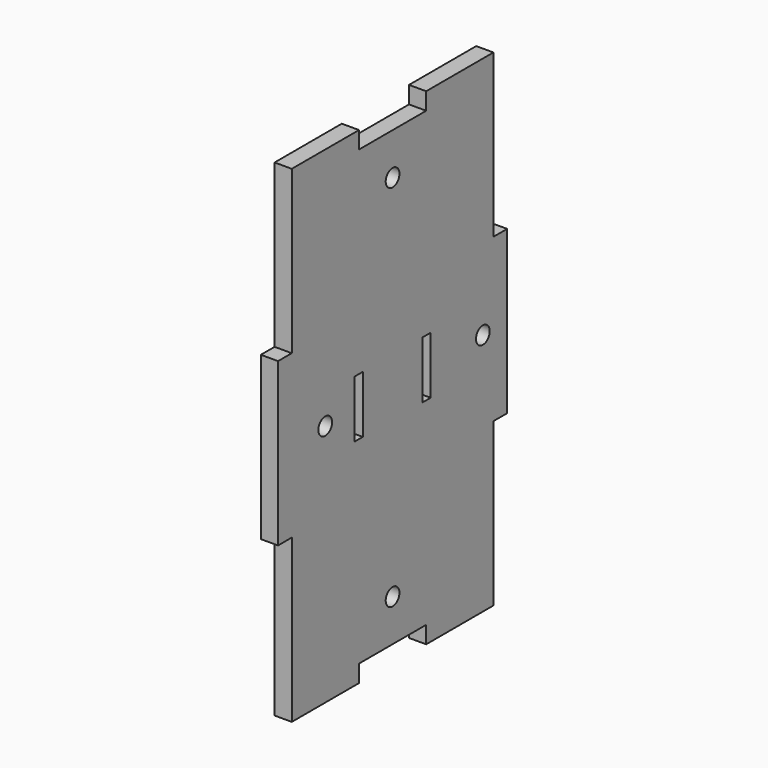
from build123d import *

# Parameters (mm, degrees)
F0_R     = 1.5
F0_W     = 1.8
F0_H     = 10
F1_DEPTH = 3


with BuildPart() as f1:
    # F0 (on Right) → F1 (new body)
    with BuildSketch(Plane.YZ):
        with BuildLine():
            Line((-22, 14.166667), (-25, 14.166667))
            Line((-25, 14.166667), (-25, -14.166667))
            Line((-25, -14.166667), (-22, -14.166667))
            Line((-22, -14.166667), (-22, -42.5))
            Line((-22, -42.5), (-14.666667, -42.5))
            Line((-14.666667, -42.5), (-7.333333, -42.5))
            Line((-7.333333, -42.5), (-7.333333, -39.5))
            Line((-7.333333, -39.5), (0, -39.5))
            Line((0, -39.5), (0, -33.7))
            ThreePointArc((0, -33.7), (-1.5, -32.2), (0, -30.7))
            Line((0, -30.7), (0, 30.7))
            ThreePointArc((0, 30.7), (-1.5, 32.2), (0, 33.7))
            Line((0, 33.7), (0, 39.5))
            Line((0, 39.5), (-7.333333, 39.5))
            Line((-7.333333, 39.5), (-7.333333, 42.5))
            Line((-7.333333, 42.5), (-14.666667, 42.5))
            Line((-14.666667, 42.5), (-22, 42.5))
            Line((-22, 42.5), (-22, 14.166667))
        make_face()
        with Locations((-14.7, 0)):
            Circle(F0_R, mode=Mode.SUBTRACT)
        with Locations((-7.4, 0)):
            Rectangle(F0_W, F0_H, mode=Mode.SUBTRACT)
        with BuildLine():
            Line((7.333333, 39.5), (0, 39.5))
            Line((0, 39.5), (0, 33.7))
            ThreePointArc((0, 33.7), (1.5, 32.2), (0, 30.7))
            Line((0, 30.7), (0, -30.7))
            ThreePointArc((0, -30.7), (1.5, -32.2), (0, -33.7))
            Line((0, -33.7), (0, -39.5))
            Line((0, -39.5), (7.333333, -39.5))
            Line((7.333333, -39.5), (7.333333, -42.5))
            Line((7.333333, -42.5), (14.666667, -42.5))
            Line((14.666667, -42.5), (22, -42.5))
            Line((22, -42.5), (22, -14.166667))
            Line((22, -14.166667), (25, -14.166667))
            Line((25, -14.166667), (25, 14.166667))
            Line((25, 14.166667), (22, 14.166667))
            Line((22, 14.166667), (22, 42.5))
            Line((22, 42.5), (14.666667, 42.5))
            Line((14.666667, 42.5), (7.333333, 42.5))
            Line((7.333333, 42.5), (7.333333, 39.5))
        make_face()
        with Locations((7.4, 0)):
            Rectangle(F0_W, F0_H, mode=Mode.SUBTRACT)
        with Locations((19.7, 0)):
            Circle(F0_R, mode=Mode.SUBTRACT)
    extrude(amount=F1_DEPTH)


solid = f1.part
